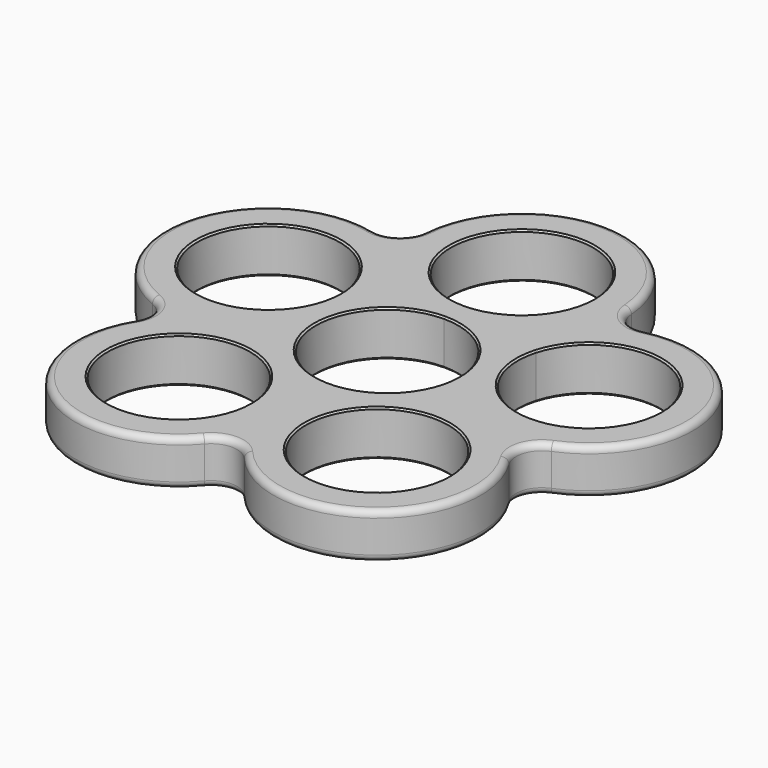
from build123d import *

# Parameters (mm, degrees)
F0_R     = 11
F1_DEPTH = 7
F2_SIZE  = 0.25
F3_R     = 1


with BuildPart() as f1:
    # F0 (on Top) → F1 (new body)
    with BuildSketch(Plane.XY):
        with BuildLine():
            ThreePointArc((20.903113, 23.570667), (17.595883, 24.218656), (15.957619, 27.163779))
            ThreePointArc((15.957619, 27.163779), (0, 42), (-15.957619, 27.163779))
            ThreePointArc((-15.957619, 27.163779), (-17.595883, 24.218656), (-20.903113, 23.570667))
            ThreePointArc((-20.903113, 23.570667), (-39.944374, 12.978714), (-30.765465, -6.782529))
            ThreePointArc((-30.765465, -6.782529), (-28.470737, -9.250703), (-28.876454, -12.596305))
            ThreePointArc((-28.876454, -12.596305), (-24.686981, -33.978714), (-3.056483, -31.355612))
            ThreePointArc((-3.056483, -31.355612), (0, -29.935905), (3.056483, -31.355612))
            ThreePointArc((3.056483, -31.355612), (24.686981, -33.978714), (28.876454, -12.596305))
            ThreePointArc((28.876454, -12.596305), (28.470737, -9.250703), (30.765465, -6.782529))
            ThreePointArc((30.765465, -6.782529), (39.944374, 12.978714), (20.903113, 23.570667))
        make_face()
        with Locations((-15.282417, -21.034442)):
            Circle(F0_R, mode=Mode.SUBTRACT)
        with BuildLine():
            ThreePointArc((0, 11), (7.778175, 7.778175), (11, 0))
            ThreePointArc((11, 0), (-7.778175, -7.778175), (0, 11))
        make_face(mode=Mode.SUBTRACT)
        with Locations((15.282417, -21.034442)):
            Circle(F0_R, mode=Mode.SUBTRACT)
        with BuildLine():
            ThreePointArc((-16.213892, 15), (-14.967217, 13.107652), (-14.134761, 11))
            ThreePointArc((-14.134761, 11), (-13.829768, 9.53114), (-13.727469, 8.034442))
            ThreePointArc((-13.727469, 8.034442), (-35.087232, 4.336426), (-16.213892, 15))
        make_face(mode=Mode.SUBTRACT)
        with BuildLine():
            ThreePointArc((11, 26), (7.778175, 18.221825), (0, 15))
            ThreePointArc((0, 15), (-7.778175, 33.778175), (11, 26))
        make_face(mode=Mode.SUBTRACT)
        with BuildLine():
            ThreePointArc((35.727469, 8.034442), (23.230771, -2.863259), (14.134761, 11))
            ThreePointArc((14.134761, 11), (26.224168, 18.932143), (35.727469, 8.034442))
        make_face(mode=Mode.SUBTRACT)
    extrude(amount=F1_DEPTH)

    # F2
    f2_edges = [f1.edges().sort_by_distance(p)[0] for p in [
        (-11, 26, 0),
        (11, 26, 3.5),
        (-11, 26, 7),
        (35.320178, 5.068884, 0),
        (14.134761, 11, 3.5),
        (35.320178, 5.068884, 7),
        (0, -11, 0),
        (0, 11, 3.5),
        (0, -11, 7),
        (-33.241047, 1.068884, 0),
        (-16.213892, 15, 3.5),
        (-33.241047, 1.068884, 7),
        (-4.282417, -21.034442, 3.5),
        (-26.282417, -21.034442, 0),
        (-26.282417, -21.034442, 7),
        (26.282417, -21.034442, 3.5),
        (4.282417, -21.034442, 0),
        (4.282417, -21.034442, 7),
    ]]
    chamfer(f2_edges, length=F2_SIZE)

    # F3
    f3_edges = [f1.edges().sort_by_distance(p)[0] for p in [
        (0, -29.935905, 7),
        (0, -29.935905, 0),
    ]]
    fillet(f3_edges, radius=F3_R)


solid = f1.part
